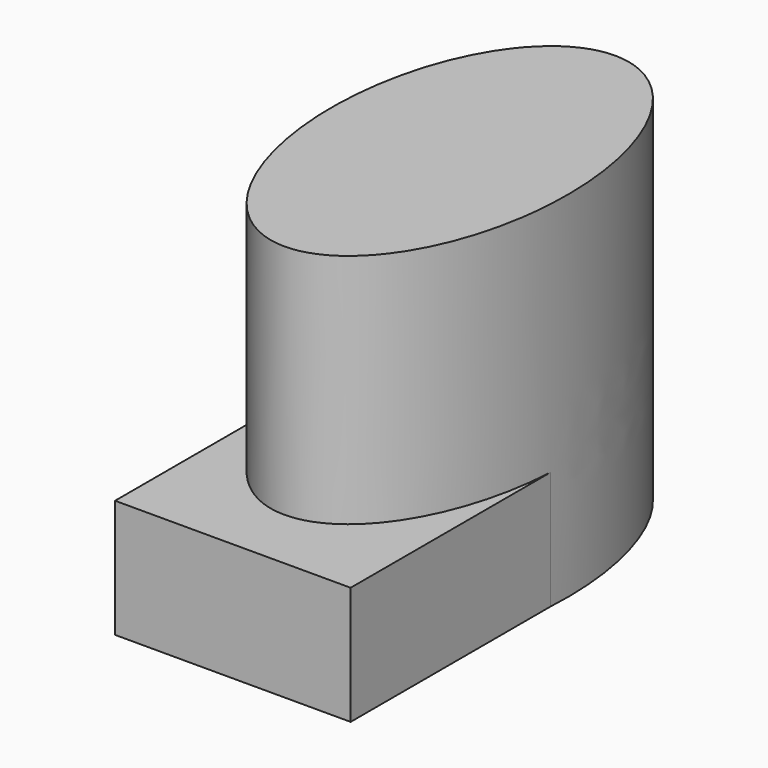
from build123d import *

# Parameters (mm, degrees)
F1_DEPTH = 76.2
F2_DEPTH = 63.5
F3_DEPTH = 25.4


with BuildPart() as f1:
    # F0 (on Top) → F1 (new body)
    with BuildSketch(Plane.XY):
        with BuildLine():
            Line((19.05, 0), (-19.05, 0))
            add(Edge.make_bspline(
                [(-19.05, 0), (-19.05, -38.1), (0, -38.1), (19.05, -38.1), (19.05, 0)],
                knots=[1.5707963268, 1.5707963268, 1.5707963268, 3.1415926536, 3.1415926536, 4.7123889804, 4.7123889804, 4.7123889804], degree=2, weights=[1, 0.7071067812, 1, 0.7071067812, 1]))
        make_face()
        with BuildLine():
            add(Edge.make_bspline(
                [(0, 38.1), (-19.05, 38.1), (-19.05, 0)],
                knots=[0, 0, 0, 1.5707963268, 1.5707963268, 1.5707963268], degree=2, weights=[1, 0.7071067812, 1]))
            Line((-19.05, 0), (19.05, 0))
            add(Edge.make_bspline(
                [(19.05, 0), (19.05, 38.1), (0, 38.1)],
                knots=[4.7123889804, 4.7123889804, 4.7123889804, 6.2831853072, 6.2831853072, 6.2831853072], degree=2, weights=[1, 0.7071067812, 1]))
        make_face()
        with BuildLine():
            Line((-19.05, 0), (-25.4, 0))
            add(Edge.make_bspline(
                [(-25.4, 0), (-25.4, -42.225404776), (-1.3029652817, -44.3914770763), (22.7940694367, -46.5575493766), (25.266321376, -4.554374286)],
                knots=[1.5707963268, 1.5707963268, 1.5707963268, 3.0902722831, 3.0902722831, 4.6097482393, 4.6097482393, 4.6097482393], degree=2, weights=[1, 0.7250164983, 1, 0.7250164983, 1]))
            Line((25.266321376, -4.554374286), (25.266321376, 0))
            Line((25.266321376, 0), (19.05, 0))
            add(Edge.make_bspline(
                [(-19.05, 0), (-19.05, -38.1), (0, -38.1), (19.05, -38.1), (19.05, 0)],
                knots=[1.5707963268, 1.5707963268, 1.5707963268, 3.1415926536, 3.1415926536, 4.7123889804, 4.7123889804, 4.7123889804], degree=2, weights=[1, 0.7071067812, 1, 0.7071067812, 1]))
        make_face()
        with BuildLine():
            add(Edge.make_bspline(
                [(25.266321376, -4.554374286), (28.1506547413, 44.45), (0, 44.45)],
                knots=[4.6097482393, 4.6097482393, 4.6097482393, 6.2831853072, 6.2831853072, 6.2831853072], degree=2, weights=[1, 0.669902749, 1]))
            add(Edge.make_bspline(
                [(0, 44.45), (-25.4, 44.45), (-25.4, 0)],
                knots=[0, 0, 0, 1.5707963268, 1.5707963268, 1.5707963268], degree=2, weights=[1, 0.7071067812, 1]))
            Line((-25.4, 0), (-19.05, 0))
            add(Edge.make_bspline(
                [(0, 38.1), (-19.05, 38.1), (-19.05, 0)],
                knots=[0, 0, 0, 1.5707963268, 1.5707963268, 1.5707963268], degree=2, weights=[1, 0.7071067812, 1]))
            add(Edge.make_bspline(
                [(19.05, 0), (19.05, 38.1), (0, 38.1)],
                knots=[4.7123889804, 4.7123889804, 4.7123889804, 6.2831853072, 6.2831853072, 6.2831853072], degree=2, weights=[1, 0.7071067812, 1]))
            Line((19.05, 0), (25.266321376, 0))
            Line((25.266321376, 0), (25.266321376, -4.554374286))
        make_face()
    extrude(amount=F1_DEPTH)

    # F0 (on Top) → F2 (cut)
    with BuildSketch(Plane.XY):
        with BuildLine():
            Line((19.05, 0), (-19.05, 0))
            add(Edge.make_bspline(
                [(-19.05, 0), (-19.05, -38.1), (0, -38.1), (19.05, -38.1), (19.05, 0)],
                knots=[1.5707963268, 1.5707963268, 1.5707963268, 3.1415926536, 3.1415926536, 4.7123889804, 4.7123889804, 4.7123889804], degree=2, weights=[1, 0.7071067812, 1, 0.7071067812, 1]))
        make_face()
        with BuildLine():
            add(Edge.make_bspline(
                [(0, 38.1), (-19.05, 38.1), (-19.05, 0)],
                knots=[0, 0, 0, 1.5707963268, 1.5707963268, 1.5707963268], degree=2, weights=[1, 0.7071067812, 1]))
            Line((-19.05, 0), (19.05, 0))
            add(Edge.make_bspline(
                [(19.05, 0), (19.05, 38.1), (0, 38.1)],
                knots=[4.7123889804, 4.7123889804, 4.7123889804, 6.2831853072, 6.2831853072, 6.2831853072], degree=2, weights=[1, 0.7071067812, 1]))
        make_face()
    extrude(amount=F2_DEPTH, mode=Mode.SUBTRACT)

    # F0 (on Top) → F3 (join)
    with BuildSketch(Plane.XY):
        with BuildLine():
            add(Edge.make_bspline(
                [(25.266321376, -4.554374286), (28.1506547413, 44.45), (0, 44.45)],
                knots=[4.6097482393, 4.6097482393, 4.6097482393, 6.2831853072, 6.2831853072, 6.2831853072], degree=2, weights=[1, 0.669902749, 1]))
            add(Edge.make_bspline(
                [(0, 44.45), (-25.4, 44.45), (-25.4, 0)],
                knots=[0, 0, 0, 1.5707963268, 1.5707963268, 1.5707963268], degree=2, weights=[1, 0.7071067812, 1]))
            Line((-25.4, 0), (-19.05, 0))
            add(Edge.make_bspline(
                [(0, 38.1), (-19.05, 38.1), (-19.05, 0)],
                knots=[0, 0, 0, 1.5707963268, 1.5707963268, 1.5707963268], degree=2, weights=[1, 0.7071067812, 1]))
            add(Edge.make_bspline(
                [(19.05, 0), (19.05, 38.1), (0, 38.1)],
                knots=[4.7123889804, 4.7123889804, 4.7123889804, 6.2831853072, 6.2831853072, 6.2831853072], degree=2, weights=[1, 0.7071067812, 1]))
            Line((19.05, 0), (25.266321376, 0))
            Line((25.266321376, 0), (25.266321376, -4.554374286))
        make_face()
        with BuildLine():
            Line((-19.05, 0), (-25.4, 0))
            add(Edge.make_bspline(
                [(-25.4, 0), (-25.4, -42.225404776), (-1.3029652817, -44.3914770763), (22.7940694367, -46.5575493766), (25.266321376, -4.554374286)],
                knots=[1.5707963268, 1.5707963268, 1.5707963268, 3.0902722831, 3.0902722831, 4.6097482393, 4.6097482393, 4.6097482393], degree=2, weights=[1, 0.7250164983, 1, 0.7250164983, 1]))
            Line((25.266321376, -4.554374286), (25.266321376, 0))
            Line((25.266321376, 0), (19.05, 0))
            add(Edge.make_bspline(
                [(-19.05, 0), (-19.05, -38.1), (0, -38.1), (19.05, -38.1), (19.05, 0)],
                knots=[1.5707963268, 1.5707963268, 1.5707963268, 3.1415926536, 3.1415926536, 4.7123889804, 4.7123889804, 4.7123889804], degree=2, weights=[1, 0.7071067812, 1, 0.7071067812, 1]))
        make_face()
        with BuildLine():
            add(Edge.make_bspline(
                [(-25.4, 0), (-25.4, -42.225404776), (-1.3029652817, -44.3914770763), (22.7940694367, -46.5575493766), (25.266321376, -4.554374286)],
                knots=[1.5707963268, 1.5707963268, 1.5707963268, 3.0902722831, 3.0902722831, 4.6097482393, 4.6097482393, 4.6097482393], degree=2, weights=[1, 0.7250164983, 1, 0.7250164983, 1]))
            Line((-25.4, 0), (-25.4, -58.2333467901))
            Line((-25.4, -58.2333467901), (25.266321376, -58.2333467901))
            Line((25.266321376, -58.2333467901), (25.266321376, -4.554374286))
        make_face()
    extrude(amount=F3_DEPTH)


solid = f1.part
